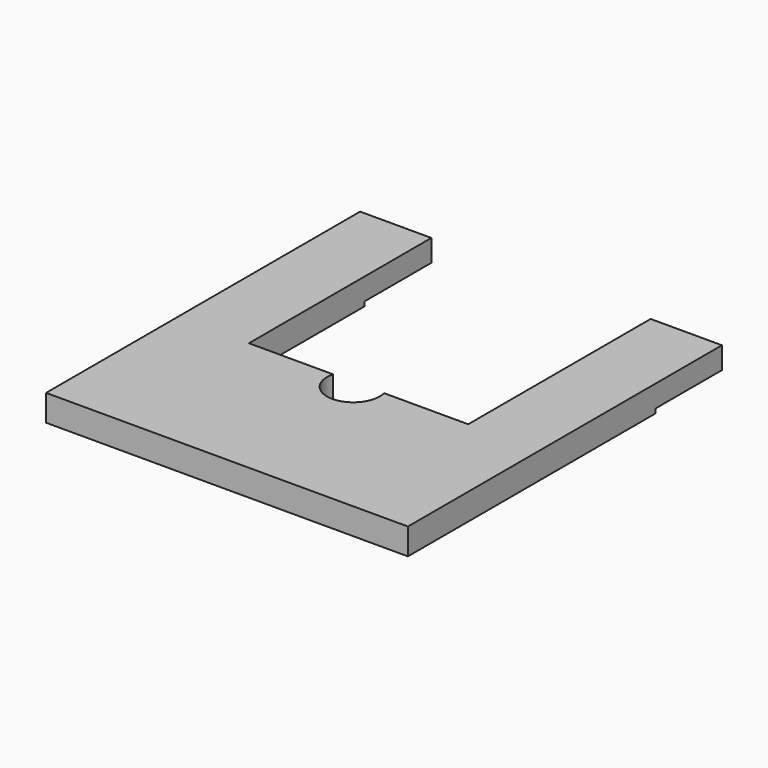
from build123d import *

# Parameters (mm, degrees)
F0_W     = 523.875
F0_H     = 568.325
F1_DEPTH = 38.1
F2_R     = 38.1
F3_DEPTH = 50.8
F4_W     = 317.5
F4_H     = 330.2
F5_DEPTH = 50.8
F6_W     = 896.055773
F6_H     = 120.65
F7_DEPTH = 6.35


with BuildPart() as f1:
    # F0 (on Top) → F1 (new body)
    with BuildSketch(Plane.XY):
        with Locations((-5.086774, 125.275676)):
            Rectangle(F0_W, F0_H)
    extrude(amount=F1_DEPTH)

    # F2 (on face) → F3 (cut)
    with BuildSketch(Plane.XY.offset(38.1)):
        with Locations((-5.086774, 69.713176)):
            Circle(F2_R)
    extrude(amount=-F3_DEPTH, mode=Mode.SUBTRACT)

    # F4 (on face) → F5 (cut)
    with BuildSketch(Plane.XY.offset(38.1)):
        with Locations((-5.086774, 244.338176)):
            Rectangle(F4_W, F4_H)
    extrude(amount=-F5_DEPTH, mode=Mode.SUBTRACT)

    # F6 (on face) → F7 (cut)
    with BuildSketch(Plane(origin=(0, 0, 0), x_dir=(1, 0, 0), z_dir=(0, 0, -1))):
        with Locations((-18.784851, -349.113176)):
            Rectangle(F6_W, F6_H)
    extrude(amount=-F7_DEPTH, mode=Mode.SUBTRACT)


solid = f1.part
